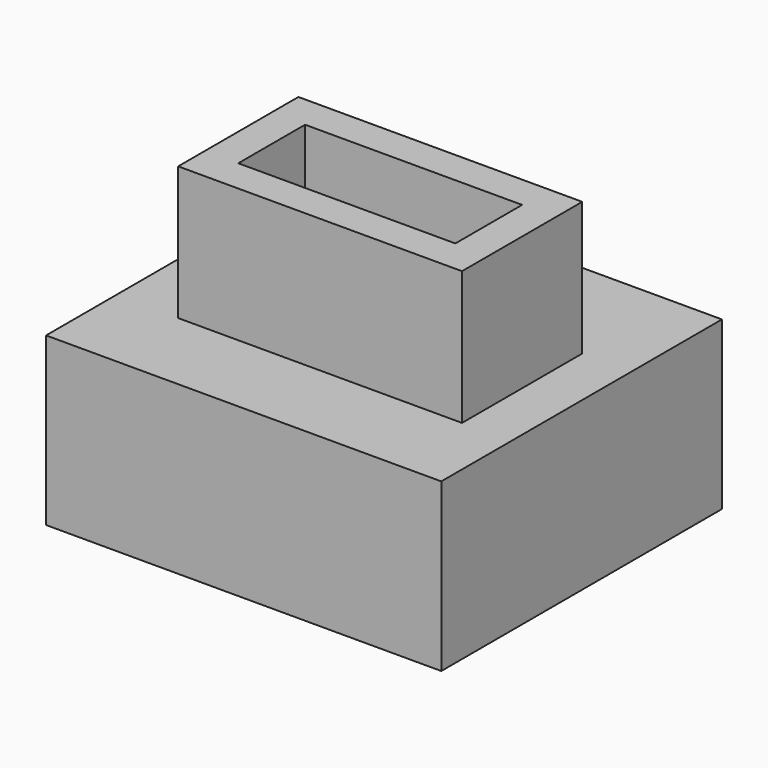
from build123d import *

# Parameters (mm, degrees)
F0_W     = 17
F0_H     = 9
F1_DEPTH = 18
F2_T     = -2
F4_DEPTH = 10


with BuildPart() as f1:
    # F0 (on Top) → F1 (new body)
    with BuildSketch(Plane.XY):
        with Locations((-16.993507, 23.638348)):
            Rectangle(F0_W, F0_H)
    extrude(amount=F1_DEPTH)

    # F2
    f2_openings = [f1.faces().sort_by_distance(p)[0] for p in [
        (-16.993507, 23.638348, 18),
    ]]
    offset(amount=F2_T, openings=f2_openings)

    # F3 (on Top) → F4 (join)
    with BuildSketch(Plane.XY):
        Polygon((-24.837663, 19.885201), (-24.837663, 23.537122), (-29.22078, 23.537122), (-29.22078, 13.90854), (-5.551947, 13.90854), (-5.551947, 23.537122), (-9.35065, 23.537122), (-9.457072, 19.885201), align=None)
        Polygon((-29.22078, 23.537122), (-24.837663, 23.537122), (-24.837663, 28.198052), (-9.35065, 28.198052), (-9.35065, 23.537122), (-5.551947, 23.537122), (-5.551947, 34.918834), (-29.22078, 34.918834), (-29.22078, 28.198052), align=None)
    extrude(amount=F4_DEPTH)


solid = f1.part
